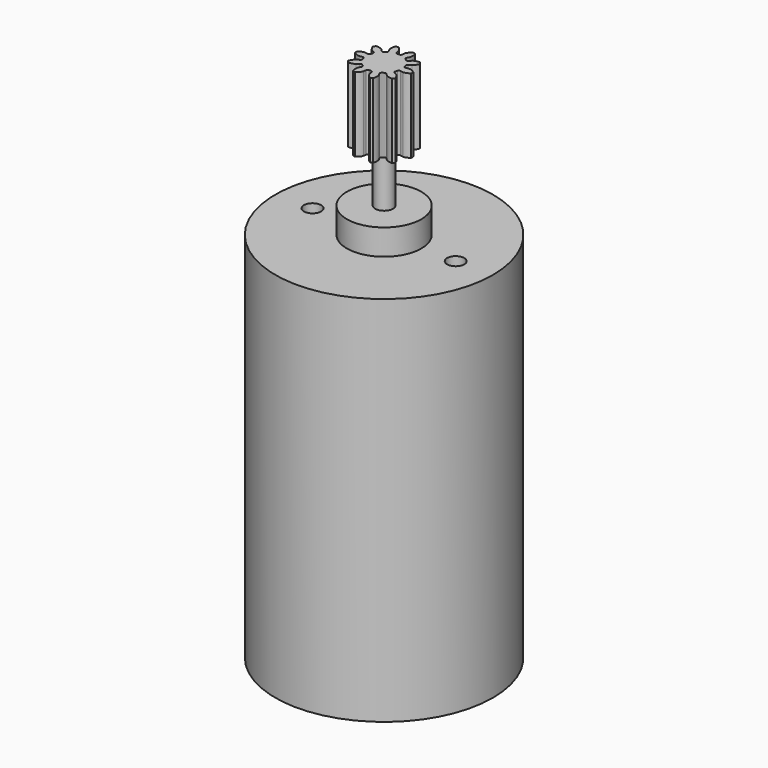
from build123d import *

# Parameters (mm, degrees)
PAD_DEPTH    = 13
SKETCH_R     = 1.565
PAD001_DEPTH = 9
SKETCH001_R  = 6.5
PAD002_DEPTH = 4.5
SKETCH002_R  = 19
PAD003_DEPTH = 65
SKETCH003_R  = 1.5
POCKET_DEPTH = 10


with BuildPart() as part:
    # InvoluteGear → Pad (new body)
    with BuildSketch(Plane.XY):
        with BuildLine():
            Line((3.318799, -0.576475), (3.808072, -0.660799))
            add(Edge.make_bspline(
                [(3.808072, -0.660799), (3.862649, -0.664033), (4.081437, -0.669431), (4.470105, -0.567144), (4.914097, -0.239417)],
                knots=[0, 0, 0, 0, 0, 1, 1, 1, 1, 1], degree=4))
            ThreePointArc((4.914097, -0.239417), (4.919926, 0), (4.914097, 0.239417))
            add(Edge.make_bspline(
                [(4.914097, 0.239417), (4.470105, 0.567144), (4.081437, 0.669431), (3.862649, 0.664033), (3.808072, 0.660799)],
                knots=[0, 0, 0, 0, 0, 1, 1, 1, 1, 1], degree=4))
            Line((3.808072, 0.660799), (3.318799, 0.576475))
            ThreePointArc((3.318799, 0.576475), (3.101267, 0.619895), (2.969549, 0.798377))
            ThreePointArc((2.969549, 0.798377), (2.924499, 0.950227), (2.871689, 1.099557))
            ThreePointArc((2.871689, 1.099557), (2.873343, 1.321373), (3.023808, 1.484363))
            Line((3.023808, 1.484363), (3.469203, 1.703731))
            add(Edge.make_bspline(
                [(3.469203, 1.703731), (3.515258, 1.733194), (3.695434, 1.857427), (3.94975, 2.168633), (4.116314, 2.694741)],
                knots=[0, 0, 0, 0, 0, 1, 1, 1, 1, 1], degree=4))
            ThreePointArc((4.116314, 2.694741), (3.980304, 2.89186), (3.834862, 3.082127))
            add(Edge.make_bspline(
                [(3.834862, 3.082127), (3.283032, 3.086291), (2.90847, 2.94059), (2.73464, 2.807622), (2.692387, 2.772926)],
                knots=[0, 0, 0, 0, 0, 1, 1, 1, 1, 1], degree=4))
            Line((2.692387, 2.772926), (2.346121, 2.417119))
            ThreePointArc((2.346121, 2.417119), (2.144613, 2.324385), (1.933141, 2.391357))
            ThreePointArc((1.933141, 2.391357), (1.80744, 2.487727), (1.676942, 2.577497))
            ThreePointArc((1.676942, 2.577497), (1.5479, 2.757922), (1.573826, 2.978225))
            Line((1.573826, 2.978225), (1.805216, 3.417494))
            add(Edge.make_bspline(
                [(1.805216, 3.417494), (1.825157, 3.4684), (1.897901, 3.674812), (1.920725, 4.076066), (1.746239, 4.5996)],
                knots=[0, 0, 0, 0, 0, 1, 1, 1, 1, 1], degree=4))
            ThreePointArc((1.746239, 4.5996), (1.520341, 4.679127), (1.29084, 4.747568))
            add(Edge.make_bspline(
                [(1.29084, 4.747568), (0.841952, 4.42658), (0.624566, 4.088543), (0.562092, 3.878795), (0.548302, 3.82589)],
                knots=[0, 0, 0, 0, 0, 1, 1, 1, 1, 1], degree=4))
            Line((0.548302, 3.82589), (0.477305, 3.334506))
            ThreePointArc((0.477305, 3.334506), (0.368789, 3.141038), (0.15834, 3.070921))
            ThreePointArc((0.15834, 3.070921), (0, 3.075), (-0.15834, 3.070921))
            ThreePointArc((-0.15834, 3.070921), (-0.368789, 3.141038), (-0.477305, 3.334506))
            Line((-0.477305, 3.334506), (-0.548302, 3.82589))
            add(Edge.make_bspline(
                [(-0.548302, 3.82589), (-0.562092, 3.878795), (-0.624566, 4.088543), (-0.841952, 4.42658), (-1.29084, 4.747568)],
                knots=[0, 0, 0, 0, 0, 1, 1, 1, 1, 1], degree=4))
            ThreePointArc((-1.29084, 4.747568), (-1.520341, 4.679127), (-1.746239, 4.5996))
            add(Edge.make_bspline(
                [(-1.746239, 4.5996), (-1.920725, 4.076066), (-1.897901, 3.674812), (-1.825157, 3.4684), (-1.805216, 3.417494)],
                knots=[0, 0, 0, 0, 0, 1, 1, 1, 1, 1], degree=4))
            Line((-1.805216, 3.417494), (-1.573826, 2.978225))
            ThreePointArc((-1.573826, 2.978225), (-1.5479, 2.757922), (-1.676942, 2.577497))
            ThreePointArc((-1.676942, 2.577497), (-1.80744, 2.487727), (-1.933141, 2.391357))
            ThreePointArc((-1.933141, 2.391357), (-2.144613, 2.324385), (-2.346121, 2.417119))
            Line((-2.346121, 2.417119), (-2.692387, 2.772926))
            add(Edge.make_bspline(
                [(-2.692387, 2.772926), (-2.73464, 2.807622), (-2.90847, 2.94059), (-3.283032, 3.086291), (-3.834862, 3.082127)],
                knots=[0, 0, 0, 0, 0, 1, 1, 1, 1, 1], degree=4))
            ThreePointArc((-3.834862, 3.082127), (-3.980304, 2.89186), (-4.116314, 2.694741))
            add(Edge.make_bspline(
                [(-4.116314, 2.694741), (-3.94975, 2.168633), (-3.695434, 1.857427), (-3.515258, 1.733194), (-3.469203, 1.703731)],
                knots=[0, 0, 0, 0, 0, 1, 1, 1, 1, 1], degree=4))
            Line((-3.469203, 1.703731), (-3.023808, 1.484363))
            ThreePointArc((-3.023808, 1.484363), (-2.873343, 1.321373), (-2.871689, 1.099557))
            ThreePointArc((-2.871689, 1.099557), (-2.924499, 0.950227), (-2.969549, 0.798377))
            ThreePointArc((-2.969549, 0.798377), (-3.101267, 0.619895), (-3.318799, 0.576475))
            Line((-3.318799, 0.576475), (-3.808072, 0.660799))
            add(Edge.make_bspline(
                [(-3.808072, 0.660799), (-3.862649, 0.664033), (-4.081437, 0.669431), (-4.470105, 0.567144), (-4.914097, 0.239417)],
                knots=[0, 0, 0, 0, 0, 1, 1, 1, 1, 1], degree=4))
            ThreePointArc((-4.914097, 0.239417), (-4.919926, 0), (-4.914097, -0.239417))
            add(Edge.make_bspline(
                [(-4.914097, -0.239417), (-4.470105, -0.567144), (-4.081437, -0.669431), (-3.862649, -0.664033), (-3.808072, -0.660799)],
                knots=[0, 0, 0, 0, 0, 1, 1, 1, 1, 1], degree=4))
            Line((-3.808072, -0.660799), (-3.318799, -0.576475))
            ThreePointArc((-3.318799, -0.576475), (-3.101267, -0.619895), (-2.969549, -0.798377))
            ThreePointArc((-2.969549, -0.798377), (-2.924499, -0.950227), (-2.871689, -1.099557))
            ThreePointArc((-2.871689, -1.099557), (-2.873343, -1.321373), (-3.023808, -1.484363))
            Line((-3.023808, -1.484363), (-3.469203, -1.703731))
            add(Edge.make_bspline(
                [(-3.469203, -1.703731), (-3.515258, -1.733194), (-3.695434, -1.857427), (-3.94975, -2.168633), (-4.116314, -2.694741)],
                knots=[0, 0, 0, 0, 0, 1, 1, 1, 1, 1], degree=4))
            ThreePointArc((-4.116314, -2.694741), (-3.980304, -2.89186), (-3.834862, -3.082127))
            add(Edge.make_bspline(
                [(-3.834862, -3.082127), (-3.283032, -3.086291), (-2.90847, -2.94059), (-2.73464, -2.807622), (-2.692387, -2.772926)],
                knots=[0, 0, 0, 0, 0, 1, 1, 1, 1, 1], degree=4))
            Line((-2.692387, -2.772926), (-2.346121, -2.417119))
            ThreePointArc((-2.346121, -2.417119), (-2.144613, -2.324385), (-1.933141, -2.391357))
            ThreePointArc((-1.933141, -2.391357), (-1.80744, -2.487727), (-1.676942, -2.577497))
            ThreePointArc((-1.676942, -2.577497), (-1.5479, -2.757922), (-1.573826, -2.978225))
            Line((-1.573826, -2.978225), (-1.805216, -3.417494))
            add(Edge.make_bspline(
                [(-1.805216, -3.417494), (-1.825157, -3.4684), (-1.897901, -3.674812), (-1.920725, -4.076066), (-1.746239, -4.5996)],
                knots=[0, 0, 0, 0, 0, 1, 1, 1, 1, 1], degree=4))
            ThreePointArc((-1.746239, -4.5996), (-1.520341, -4.679127), (-1.29084, -4.747568))
            add(Edge.make_bspline(
                [(-1.29084, -4.747568), (-0.841952, -4.42658), (-0.624566, -4.088543), (-0.562092, -3.878795), (-0.548302, -3.82589)],
                knots=[0, 0, 0, 0, 0, 1, 1, 1, 1, 1], degree=4))
            Line((-0.548302, -3.82589), (-0.477305, -3.334506))
            ThreePointArc((-0.477305, -3.334506), (-0.368789, -3.141038), (-0.15834, -3.070921))
            ThreePointArc((-0.15834, -3.070921), (0, -3.075), (0.15834, -3.070921))
            ThreePointArc((0.15834, -3.070921), (0.368789, -3.141038), (0.477305, -3.334506))
            Line((0.477305, -3.334506), (0.548302, -3.82589))
            add(Edge.make_bspline(
                [(0.548302, -3.82589), (0.562092, -3.878795), (0.624566, -4.088543), (0.841952, -4.42658), (1.29084, -4.747568)],
                knots=[0, 0, 0, 0, 0, 1, 1, 1, 1, 1], degree=4))
            ThreePointArc((1.29084, -4.747568), (1.520341, -4.679127), (1.746239, -4.5996))
            add(Edge.make_bspline(
                [(1.746239, -4.5996), (1.920725, -4.076066), (1.897901, -3.674812), (1.825157, -3.4684), (1.805216, -3.417494)],
                knots=[0, 0, 0, 0, 0, 1, 1, 1, 1, 1], degree=4))
            Line((1.805216, -3.417494), (1.573826, -2.978225))
            ThreePointArc((1.573826, -2.978225), (1.5479, -2.757922), (1.676942, -2.577497))
            ThreePointArc((1.676942, -2.577497), (1.80744, -2.487727), (1.933141, -2.391357))
            ThreePointArc((1.933141, -2.391357), (2.144613, -2.324385), (2.346121, -2.417119))
            Line((2.346121, -2.417119), (2.692387, -2.772926))
            add(Edge.make_bspline(
                [(2.692387, -2.772926), (2.73464, -2.807622), (2.90847, -2.94059), (3.283032, -3.086291), (3.834862, -3.082127)],
                knots=[0, 0, 0, 0, 0, 1, 1, 1, 1, 1], degree=4))
            ThreePointArc((3.834862, -3.082127), (3.980304, -2.89186), (4.116314, -2.694741))
            add(Edge.make_bspline(
                [(4.116314, -2.694741), (3.94975, -2.168633), (3.695434, -1.857427), (3.515258, -1.733194), (3.469203, -1.703731)],
                knots=[0, 0, 0, 0, 0, 1, 1, 1, 1, 1], degree=4))
            Line((3.469203, -1.703731), (3.023808, -1.484363))
            ThreePointArc((3.023808, -1.484363), (2.873343, -1.321373), (2.871689, -1.099557))
            ThreePointArc((2.871689, -1.099557), (2.924499, -0.950227), (2.969549, -0.798377))
            ThreePointArc((2.969549, -0.798377), (3.101267, -0.619895), (3.318799, -0.576475))
        make_face()
    extrude(amount=PAD_DEPTH)

    # Sketch (on Face81 of Pad) → Pad001 (join)
    with BuildSketch(Plane(origin=(0, 0, 0), x_dir=(1, 0, 0), z_dir=(0, 0, -1))):
        Circle(SKETCH_R)
    extrude(amount=PAD001_DEPTH)

    # Sketch001 (on Face84 of Pad001) → Pad002 (join)
    with BuildSketch(Plane(origin=(0, 0, -9), x_dir=(1, 0, 0), z_dir=(0, 0, -1))):
        Circle(SKETCH001_R)
    extrude(amount=PAD002_DEPTH)

    # Sketch002 (on Face86 of Pad002) → Pad003 (join)
    with BuildSketch(Plane(origin=(0, 0, -13.5), x_dir=(1, 0, 0), z_dir=(0, 0, -1))):
        Circle(SKETCH002_R)
    extrude(amount=PAD003_DEPTH)

    # Sketch003 (on Face86 of Pad003) → Pocket (cut)
    with BuildSketch(Plane.XY.offset(-13.5)):
        with Locations((12.5, 0)):
            Circle(SKETCH003_R)
        with Locations((-12.5, 0)):
            Circle(SKETCH003_R)
    extrude(amount=-POCKET_DEPTH, mode=Mode.SUBTRACT)


solid = part.part
